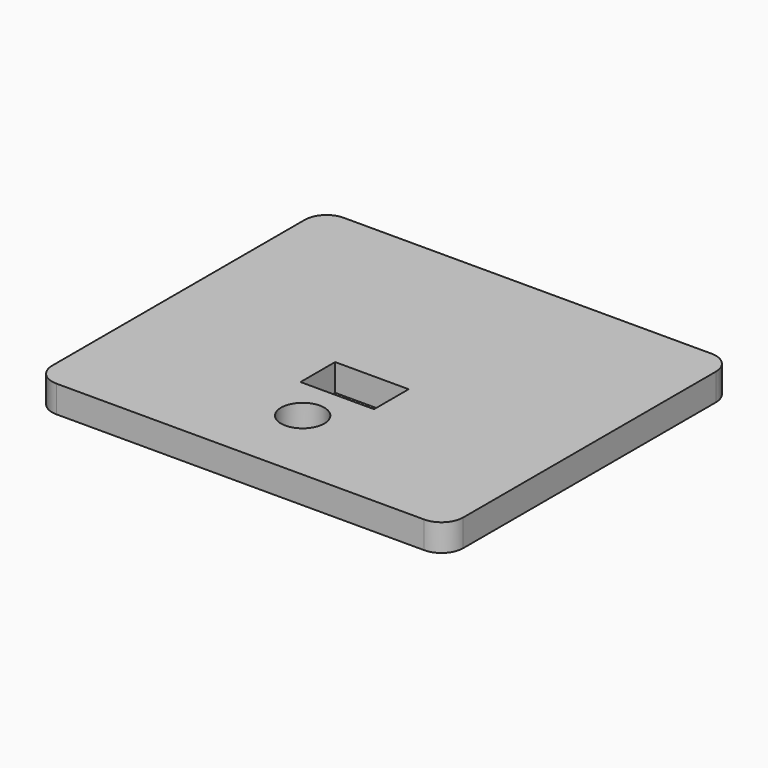
from build123d import *

# Parameters (mm, degrees)
F0_R     = 2
F0_W     = 6.8
F0_H     = 4
F1_DEPTH = 2.5


with BuildPart() as f1:
    # F0 (on Top) → F1 (new body)
    with BuildSketch(Plane.XY):
        with BuildLine():
            Line((17, 16.6), (-17, 16.6))
            ThreePointArc((-17, 16.6), (-18.414214, 16.014214), (-19, 14.6))
            Line((-19, 14.6), (-19, -14.6))
            ThreePointArc((-19, -14.6), (-18.414214, -16.014214), (-17, -16.6))
            Line((-17, -16.6), (17, -16.6))
            ThreePointArc((17, -16.6), (18.414214, -16.014214), (19, -14.6))
            Line((19, -14.6), (19, 14.6))
            ThreePointArc((19, 14.6), (18.414214, 16.014214), (17, 16.6))
        make_face()
        with Locations((0, -9.4)):
            Circle(F0_R, mode=Mode.SUBTRACT)
        with Locations((0, -3.4)):
            Rectangle(F0_W, F0_H, mode=Mode.SUBTRACT)
    extrude(amount=F1_DEPTH)


solid = f1.part
